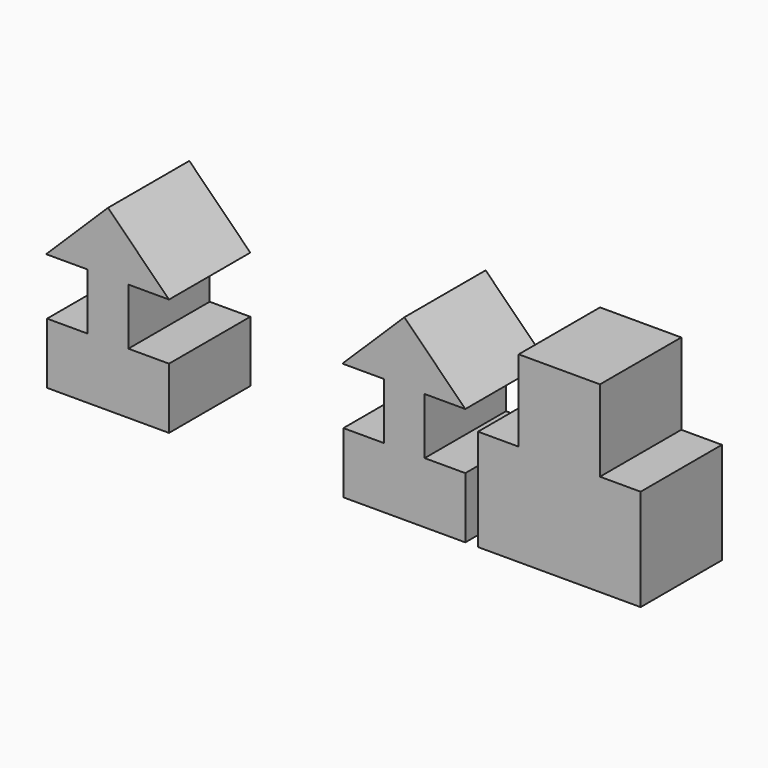
from build123d import *

# Parameters (mm, degrees)
F1_DEPTH = 50
F2_W     = 40
F2_H     = 40
F3_DEPTH = 50


with BuildPart() as f1:
    # F0 (on Front) → F1 (new body)
    with BuildSketch(Plane.XZ):
        Polygon((-40, 30), (-60, 30), (-60, 0), (0, 0), (0, 30), (-20, 30), align=None)
        Polygon((-40, 57.771228), (-40, 30), (-20, 30), (-20, 57.771228), (-30, 57.771228), align=None)
        Polygon((-60.485747, 57.771228), (-40, 57.771228), (-30, 57.771228), (-30, 87.771228), align=None)
        Polygon((-30, 57.771228), (-20, 57.771228), (0, 57.771228), (-30, 87.771228), align=None)
    extrude(amount=F1_DEPTH)


with BuildPart() as f3:
    # F2 (on Front) → F3 (new body)
    with BuildSketch(Plane.XZ):
        Polygon((26.250001, 50), (6.250001, 50), (6.250001, 0), (86.250001, 0), (86.250001, 50), (66.250001, 50), align=None)
        with Locations((46.250001, 70)):
            Rectangle(F2_W, F2_H)
    extrude(amount=F3_DEPTH)


with BuildPart() as f4_1:
    # F4: copy of F1
    add(f1.part.moved(Location((-145.79413, 0, 0))))


solid = Compound([f1.part, f3.part, f4_1.part])
